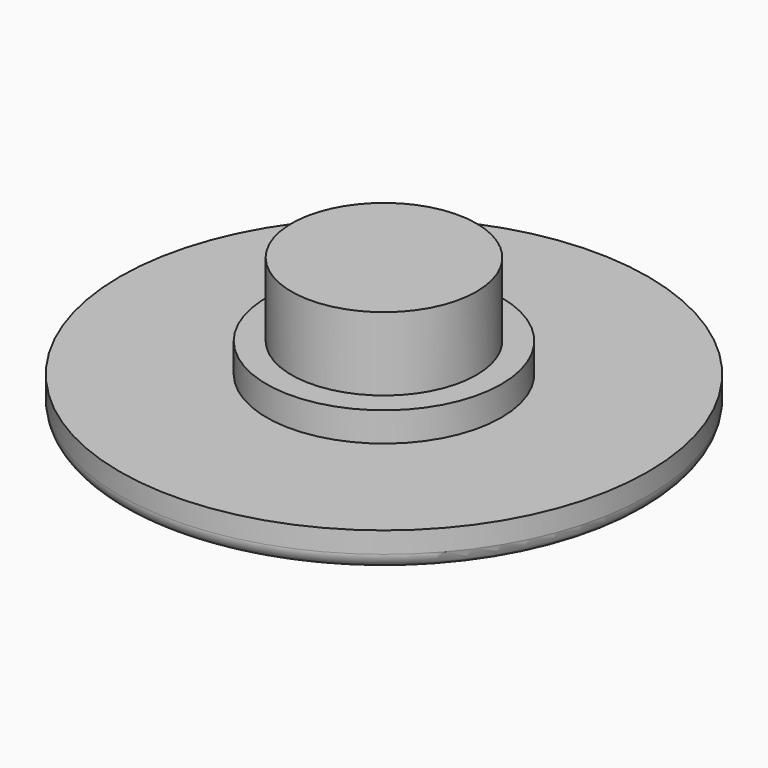
from build123d import *

# Parameters (mm, degrees)
F0_R     = 11.43
F1_DEPTH = 1.5875
F2_R     = 5.08
F3_DEPTH = 1.27
F4_R     = 4.0005
F5_DEPTH = 3.175
F6_R     = 0.674531


with BuildPart() as f1:
    # F0 (on Top) → F1 (new body)
    with BuildSketch(Plane.XY):
        Circle(F0_R)
    extrude(amount=F1_DEPTH)

    # F2 (on face) → F3 (join)
    with BuildSketch(Plane.XY.offset(1.5875)):
        Circle(F2_R)
    extrude(amount=F3_DEPTH)

    # F4 (on face) → F5 (join)
    with BuildSketch(Plane.XY.offset(2.8575)):
        Circle(F4_R)
    extrude(amount=F5_DEPTH)

    # F6
    f6_edges = [f1.edges().sort_by_distance(p)[0] for p in [
        (-11.43, 0, 0),
    ]]
    fillet(f6_edges, radius=F6_R)


solid = f1.part
